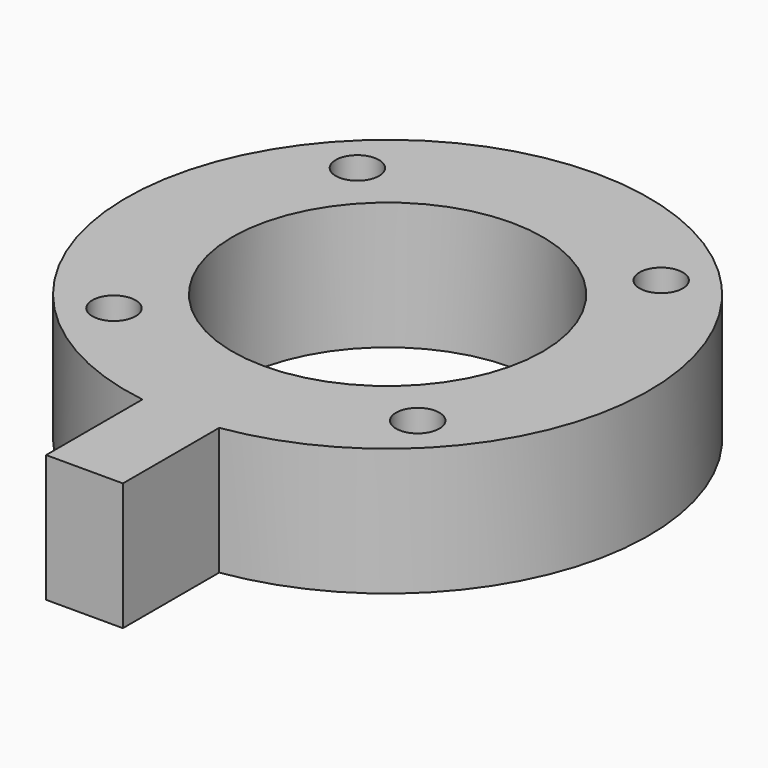
from build123d import *

# Parameters (mm, degrees)
F0_R     = 4.318
F0_R_2   = 30.9245
F1_DEPTH = 25.4


with BuildPart() as f1:
    # F0 (on Top) → F1 (new body)
    with BuildSketch(Plane.XY):
        with BuildLine():
            Line((7.654804, -75.495739), (7.654804, -51.504261))
            ThreePointArc((7.654804, -51.504261), (0, 52.07), (-7.654804, -51.504261))
            Line((-7.654804, -51.504261), (-7.654804, -75.495739))
            Line((-7.654804, -75.495739), (7.654804, -75.495739))
        make_face()
        with Locations((-30.316087, -30.264699)):
            Circle(F0_R, mode=Mode.SUBTRACT)
        with Locations((30.264699, -30.316087)):
            Circle(F0_R, mode=Mode.SUBTRACT)
        with Locations((-30.264699, 30.316087)):
            Circle(F0_R, mode=Mode.SUBTRACT)
        Circle(F0_R_2, mode=Mode.SUBTRACT)
        with Locations((30.316087, 30.264699)):
            Circle(F0_R, mode=Mode.SUBTRACT)
    extrude(amount=F1_DEPTH)


solid = f1.part
